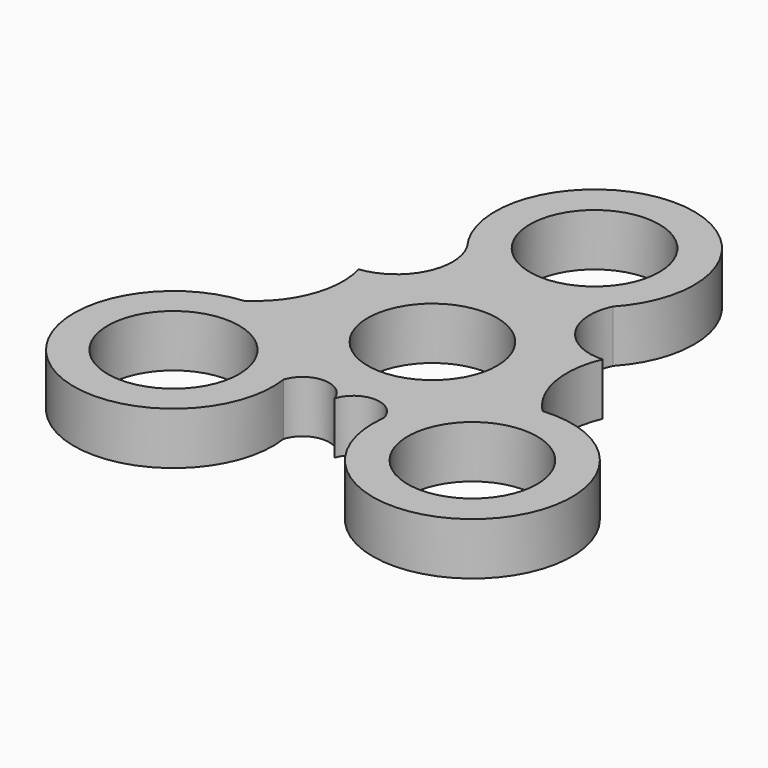
from build123d import *

# Parameters (mm, degrees)
F0_R     = 11.162789
F0_R_2   = 10.9982
F1_DEPTH = 8.89


with BuildPart() as f1:
    # F0 (on Top) → F1 (new body)
    with BuildSketch(Plane.XY):
        with BuildLine():
            ThreePointArc((20.78403, 10.17702), (12.955474, 14.150564), (12.376799, 22.910729))
            ThreePointArc((12.376799, 22.910729), (0.831126, 51.33837), (-13.448812, 24.181111))
            ThreePointArc((-13.448812, 24.181111), (-13.323241, 15.251649), (-20.671656, 10.17702))
            ThreePointArc((-20.671656, 10.17702), (-21.084916, 0.863796), (-26.915357, -6.410328))
            ThreePointArc((-26.915357, -6.410328), (-35.876376, -36.540667), (-8.662071, -20.807938))
            ThreePointArc((-8.662071, -20.807938), (-4.331036, -17.634318), (0, -20.807938))
            ThreePointArc((0, -20.807938), (4.421541, -17.66469), (8.622223, -21.097517))
            ThreePointArc((8.622223, -21.097517), (37.152681, -35.425851), (23.821326, -6.416143))
            ThreePointArc((23.821326, -6.416143), (19.777657, 1.418246), (20.78403, 10.17702))
        make_face()
        with Locations((-25.4, -23.25872)):
            Circle(F0_R, mode=Mode.SUBTRACT)
        Circle(F0_R_2, mode=Mode.SUBTRACT)
        with Locations((25.4, -23.25872)):
            Circle(F0_R_2, mode=Mode.SUBTRACT)
        with Locations((0, 34.4424)):
            Circle(F0_R_2, mode=Mode.SUBTRACT)
    extrude(amount=F1_DEPTH)


solid = f1.part
